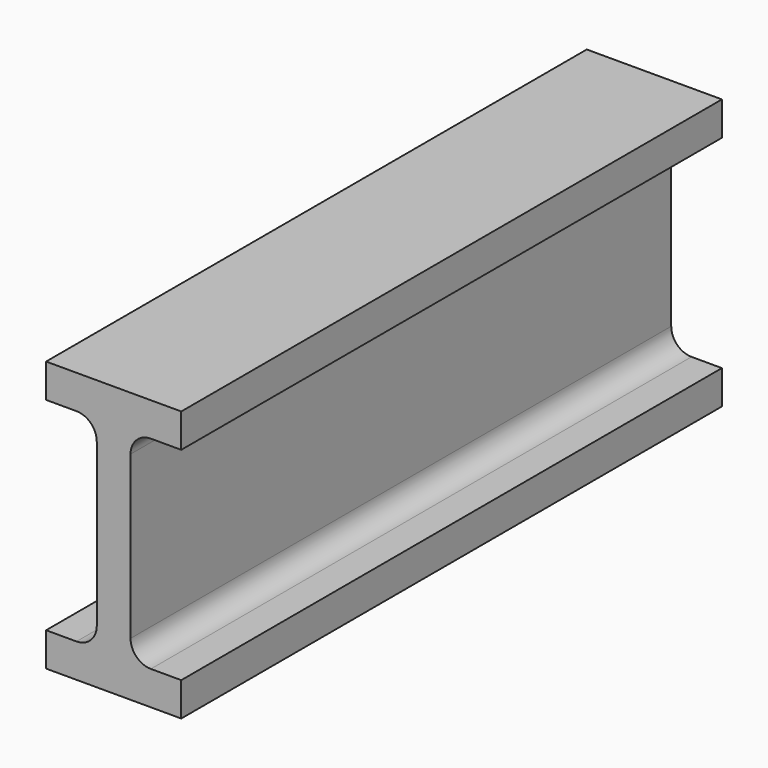
from build123d import *

# Parameters (mm, degrees)
F1_DEPTH = 50


with BuildPart() as f1:
    # F0 (on Front) → F1 (new body, symmetric)
    with BuildSketch(Plane.XZ):
        with BuildLine():
            Line((10, 40), (0, 40))
            Line((0, 40), (-10, 40))
            Line((-10, 40), (-10, 35))
            Line((-10, 35), (-5.5, 35))
            ThreePointArc((-5.5, 35), (-3.37868, 34.12132), (-2.5, 32))
            Line((-2.5, 32), (-2.5, 8))
            ThreePointArc((-2.5, 8), (-3.37868, 5.87868), (-5.5, 5))
            Line((-5.5, 5), (-10, 5))
            Line((-10, 5), (-10, 0))
            Line((-10, 0), (0, 0))
            Line((0, 0), (10, 0))
            Line((10, 0), (10, 5))
            Line((10, 5), (5.5, 5))
            ThreePointArc((5.5, 5), (3.37868, 5.87868), (2.5, 8))
            Line((2.5, 8), (2.5, 32))
            ThreePointArc((2.5, 32), (3.37868, 34.12132), (5.5, 35))
            Line((5.5, 35), (10, 35))
            Line((10, 35), (10, 40))
        make_face()
    extrude(amount=F1_DEPTH, both=True)


solid = f1.part
